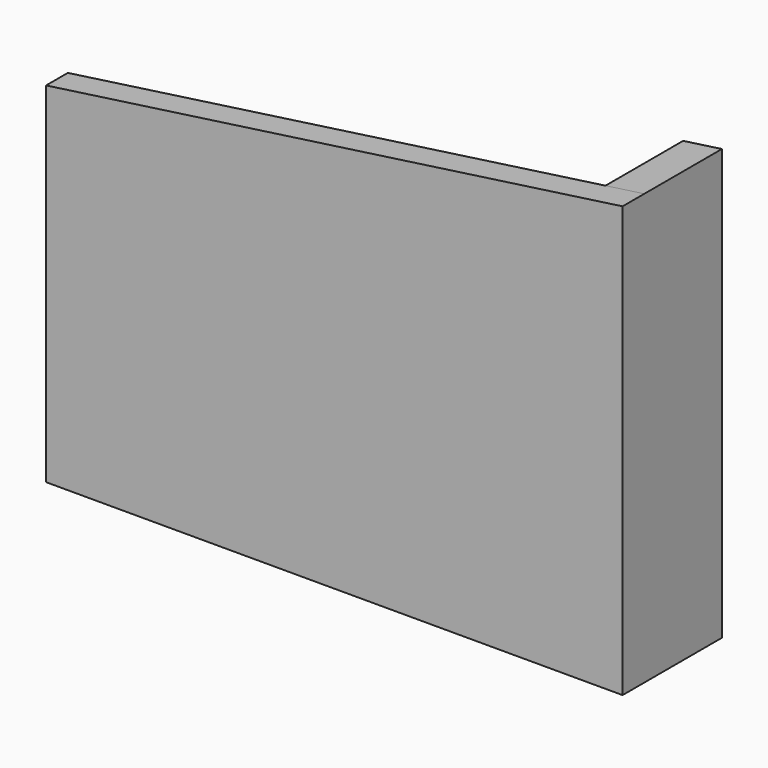
from build123d import *

# Parameters (mm, degrees)
F1_DEPTH = 7
F3_DEPTH = 25


with BuildPart() as f1:
    # F0 (on Front) → F1 (new body)
    with BuildSketch(Plane.XZ):
        Polygon((0, 90), (0, 0), (148.54021, 0), (148.54021, 110.875965), align=None)
    extrude(amount=F1_DEPTH)

    # F2 (on face) → F3 (join)
    with BuildSketch(Plane(origin=(0, 0, 0), x_dir=(-1, 0, 0), z_dir=(0, 1, 0))):
        Polygon((-138.54021, 109.470557), (-148.54021, 110.875965), (-148.54021, 0), (-138.54021, 0), align=None)
    extrude(amount=F3_DEPTH)


solid = f1.part
